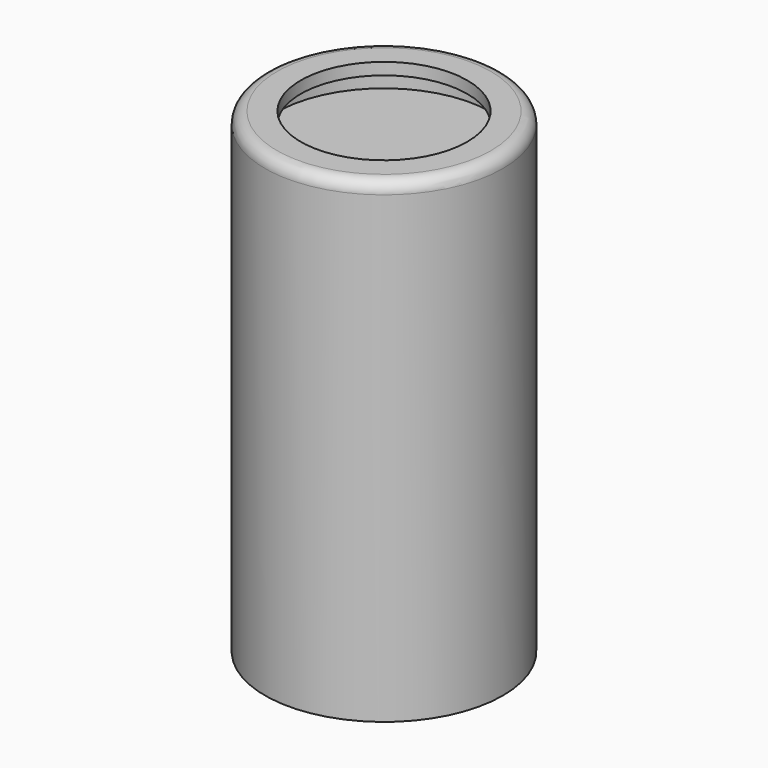
from build123d import *

# Parameters (mm, degrees)
SKETCH023_R     = 5
PAD014_DEPTH    = 20
SKETCH024_R     = 3.5
POCKET010_DEPTH = 0.5
SKETCH027_R     = 4.5
POCKET012_DEPTH = 1
FILLET001_R     = 0.5


with BuildPart() as part:
    # Sketch023 → Pad014 (new body)
    with BuildSketch(Plane.XY):
        Circle(SKETCH023_R)
    extrude(amount=PAD014_DEPTH)

    # Sketch024 (on Face3 of Pad014) → Pocket010 (cut)
    with BuildSketch(Plane.XY.offset(20)):
        Circle(SKETCH024_R)
    extrude(amount=-POCKET010_DEPTH, mode=Mode.SUBTRACT)

    # Sketch027 (on Face5 of Pocket010) → Pocket012 (cut)
    with BuildSketch(Plane.XY.offset(19.5)):
        Circle(SKETCH027_R)
    extrude(amount=-POCKET012_DEPTH, mode=Mode.SUBTRACT)

    # Fillet001
    fillet001_edges = [part.edges().sort_by_distance(p)[0] for p in [
        (-5, 0, 20),
    ]]
    fillet(fillet001_edges, radius=FILLET001_R)


solid = part.part
